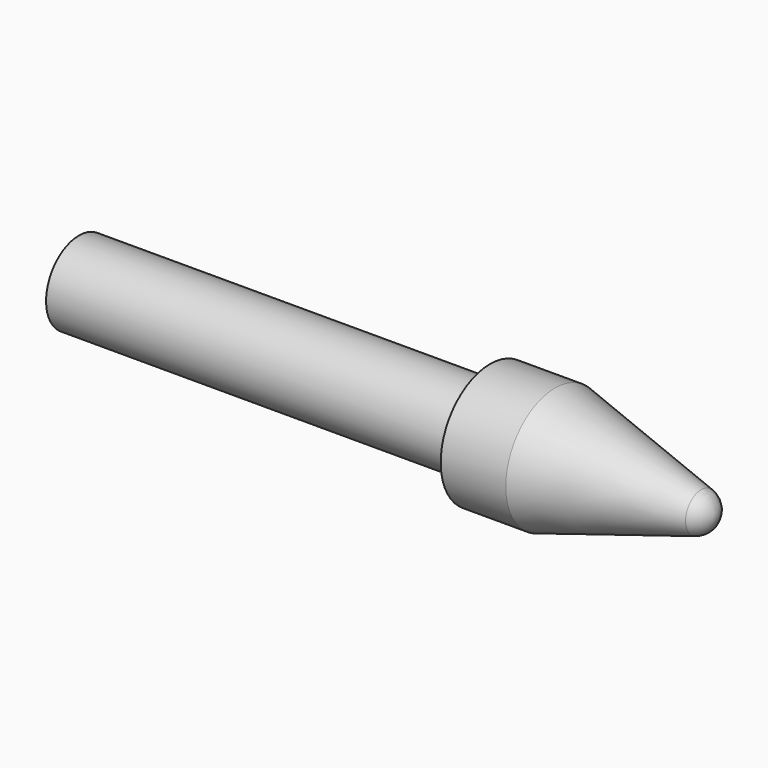
from build123d import *


with BuildPart() as f1:
    # F0 (on Front) → F1 (revolve)
    with BuildSketch(Plane.XZ):
        with BuildLine():
            Line((0, 2), (0, 0))
            Line((0, 0), (30, 0))
            Line((30, 0), (31, 0))
            ThreePointArc((31, 0), (30.79861, 0.601849), (30.275555, 0.961285))
            Line((30.275555, 0.961285), (23.163419, 3))
            Line((23.163419, 3), (20, 3))
            Line((20, 3), (20, 2))
            Line((20, 2), (0, 2))
        make_face()
    revolve(axis=Axis((15, 0, 0), (1, 0, 0)))


solid = f1.part
